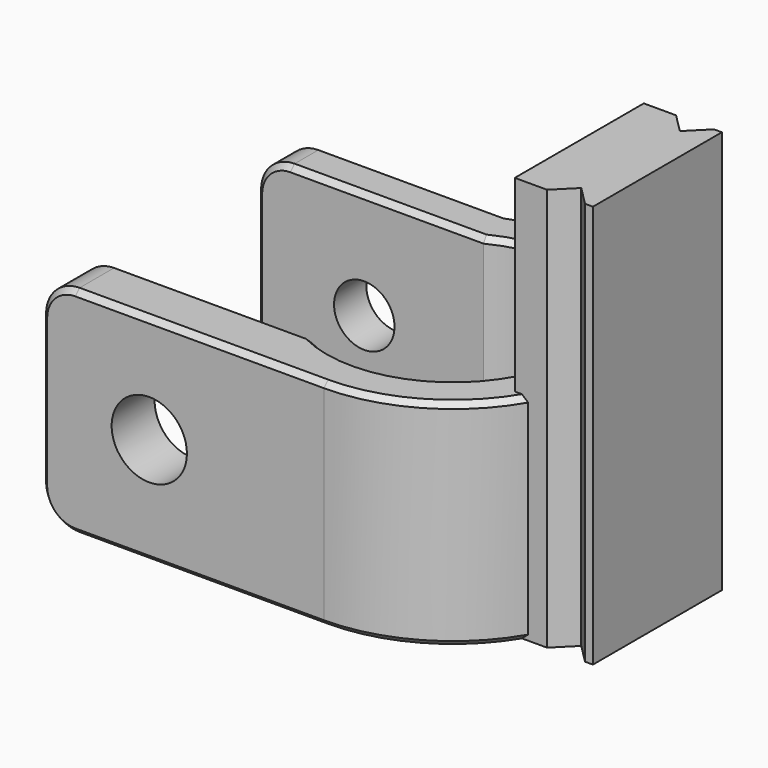
from build123d import *

# Parameters (mm, degrees)
PAD003_DEPTH        = 16
FILLET_R            = 2.5
HOLE002_D           = 4.5
HOLE002_CBORE_D     = 5.6
HOLE002_CBORE_DEPTH = 4.4
CHAMFER005_SIZE     = 0.4
PAD014_DEPTH        = 14


with BuildPart() as part:
    # Sketch015 → Pad003 (new body)
    with BuildSketch(Plane.XY):
        with BuildLine():
            Line((10.392305, 6), (11.8, 6))
            Line((11.8, 6), (13.214214, 4.585786))
            Line((13.214214, 4.585786), (14.628427, 6))
            Line((14.628427, 6), (15.214214, 6))
            Line((15.214214, 6), (15.214214, -6))
            Line((15.214214, -6), (14.628427, -6))
            Line((14.628427, -6), (13.214214, -4.585786))
            Line((13.214214, -4.585786), (11.8, -6))
            Line((11.8, -6), (10.392305, -6))
            ThreePointArc((0, -12), (6, -10.392305), (10.392305, -6))
            Line((0, -12), (-21, -12))
            Line((-21, -12), (-21, -8))
            Line((-21, -8), (-4.123106, -8))
            ThreePointArc((-4.123106, -8), (9, 0), (-4.123106, 8))
            Line((-21, 8), (-4.123106, 8))
            Line((-21, 11), (-21, 8))
            Line((-4.795832, 11), (-21, 11))
            ThreePointArc((10.392305, 6), (3.75235, 11.39824), (-4.795832, 11))
        make_face()
    extrude(amount=PAD003_DEPTH)

    # Fillet
    fillet_edges = [part.edges().sort_by_distance(p)[0] for p in [
        (-21, 9.5, 16),
        (-21, -10, 16),
        (-21, -10, 0),
        (-21, 9.5, 0),
    ]]
    fillet(fillet_edges, radius=FILLET_R)

    # Hole002 (through all)
    with Locations(Plane.XZ.offset(12)):
        with Locations((-13, 8)):
            CounterBoreHole(HOLE002_D / 2, HOLE002_CBORE_D / 2, HOLE002_CBORE_DEPTH)

    # Chamfer005
    chamfer005_edges = [part.edges().sort_by_distance(p)[0] for p in [
        (9, 0, 0),
        (9, 0, 16),
        (-11.311553, 8, 0),
        (-11.311553, -8, 0),
        (3.75235, 11.39824, 0),
        (-11.647916, 11, 0),
        (6, -10.392305, 0),
        (-9.25, -12, 0),
        (3.75235, 11.39824, 16),
        (6, -10.392305, 16),
    ]]
    chamfer(chamfer005_edges, length=CHAMFER005_SIZE)

    # Sketch033 (on Face20 of Pad003) → Pad014 (join)
    with BuildSketch(Plane.XY.offset(16)):
        Polygon((15.214214, 6), (15.214214, -6), (14.628427, -6), (13.214214, -4.585786), (11.8, -6), (9.4, -6), (9.4, 6), (11.8, 6), (13.214214, 4.585786), (14.628427, 6), align=None)
    extrude(amount=PAD014_DEPTH)


solid = part.part
